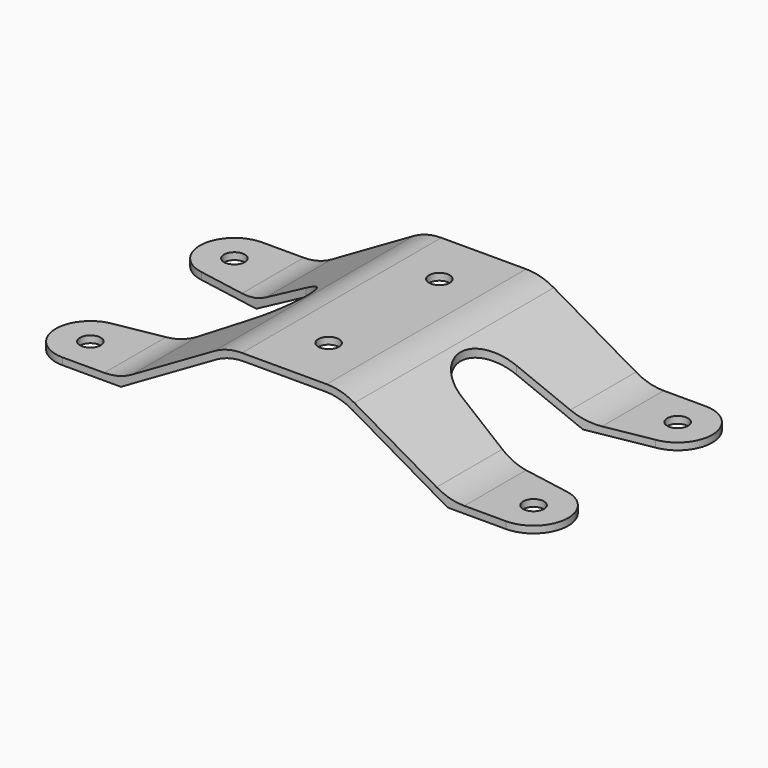
from build123d import *

# Parameters (mm, degrees)
F1_DEPTH      = 63.5
F1_DEPTH_BACK = 74.676
F3_START      = -145.542
F2_R          = 4.7625
F3_DEPTH      = 250.19
F4_R          = 25.4


with BuildPart() as f1:
    # F0 (on Front) → F1 (new body, two sides)
    with BuildSketch(Plane.XZ) as f1_sk:
        Polygon((-25.4, 0), (0, 0), (25.4, 0), (74.8933518263, -28.575), (127, -28.575), (127, -25.4), (75.7440905122, -25.4), (26.250738686, 3.175), (0, 3.175), (-26.250738686, 3.175), (-75.7440905122, -25.4), (-127, -25.4), (-127, -28.575), (-74.8933518263, -28.575), align=None)
    extrude(amount=F1_DEPTH)
    extrude(f1_sk.sketch, amount=-F1_DEPTH_BACK)

    # F2 (on Top) → F3 (intersect)
    with BuildSketch(Plane.XY.offset(F3_START)):
        with BuildLine():
            ThreePointArc((-104.0748523501, -25.594096619), (-117.4264014573, -42.5162259718), (-101.6, -57.15))
            Line((-101.6, -57.15), (0, -57.15))
            Line((0, -57.15), (101.6, -57.15))
            ThreePointArc((101.6, -57.15), (117.4264014573, -42.5162259718), (104.0748523501, -25.594096619))
            Line((104.0748523501, -25.594096619), (48.2385059171, -15.6280150973))
            ThreePointArc((48.2385059171, -15.6280150973), (35.1529089212, 0), (48.2385059171, 15.6280150973))
            Line((48.2385059171, 15.6280150973), (104.0748523501, 25.594096619))
            ThreePointArc((104.0748523501, 25.594096619), (117.4264014573, 42.5162259718), (101.6, 57.15))
            Line((101.6, 57.15), (0, 57.15))
            Line((0, 57.15), (-101.6, 57.15))
            ThreePointArc((-101.6, 57.15), (-117.4264014573, 42.5162259718), (-104.0748523501, 25.594096619))
            Line((-104.0748523501, 25.594096619), (-48.2385059171, 15.6280150973))
            ThreePointArc((-48.2385059171, 15.6280150973), (-35.1529089212, 0), (-48.2385059171, -15.6280150973))
            Line((-48.2385059171, -15.6280150973), (-104.0748523501, -25.594096619))
        make_face()
        with Locations((-101.6, -41.275)):
            Circle(F2_R, mode=Mode.SUBTRACT)
        with Locations((0, -31.75)):
            Circle(F2_R, mode=Mode.SUBTRACT)
        with Locations((101.6, -41.275)):
            Circle(F2_R, mode=Mode.SUBTRACT)
        with Locations((-101.6, 41.275)):
            Circle(F2_R, mode=Mode.SUBTRACT)
        with Locations((0, 31.75)):
            Circle(F2_R, mode=Mode.SUBTRACT)
        with Locations((101.6, 41.275)):
            Circle(F2_R, mode=Mode.SUBTRACT)
    extrude(amount=F3_DEPTH, mode=Mode.INTERSECT)

    # F4
    f4_edges = [f1.edges().sort_by_distance(p)[0] for p in [
        (-75.744091, -38.843707, -25.4),
        (-75.744091, 38.843707, -25.4),
        (-26.250739, 0, 3.175),
        (26.250739, 0, 3.175),
        (75.744091, -38.843707, -25.4),
        (75.744091, 38.843707, -25.4),
        (-25.4, 0, 0),
        (25.4, 0, 0),
    ]]
    fillet(f4_edges, radius=F4_R)


solid = f1.part
